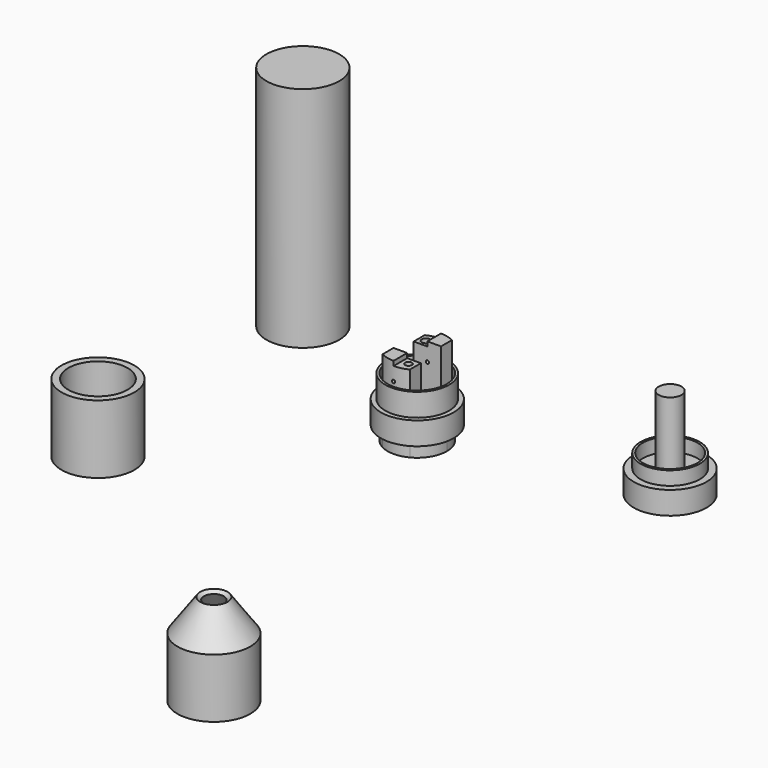
from build123d import *

# Parameters (mm, degrees)
F0_R      = 8
F1_DEPTH  = 50
F3_R      = 8
F3_R_2    = 6.5
F3_R_3    = 6
F3_R_4    = 2.5
F4_DEPTH  = 5
F5_DEPTH  = 3
F6_DEPTH  = 15
F2_R      = 8
F2_R_2    = 7
F7_DEPTH  = 5
F8_DEPTH  = 8
F9_DEPTH  = 5
F10_R     = 1.25
F11_DEPTH = 40
F12_DEPTH = 10
F13_R     = 0.35
F15_DEPTH = 25
F14_R     = 0.35
F16_DEPTH = 25
F17_R     = 8
F17_R_2   = 6.5
F18_DEPTH = 15
F21_R     = 3
F22_W     = 3
F22_H     = 3
F22_R     = 0.9181713185
F23_DEPTH = 1
F24_DEPTH = 3
F25_W     = 3
F25_H     = 3
F25_R     = 0.75
F26_DEPTH = 1
F27_DEPTH = 3
F29_DEPTH = 1
F31_DEPTH = 1


with BuildPart() as f1:
    # F0 (on Top) → F1 (new body)
    with BuildSketch(Plane.XY):
        with Locations((-50.1043796539, 40.5723229051)):
            Circle(F0_R)
    extrude(amount=F1_DEPTH)


with BuildPart() as f4:
    # F3 (on Top) → F4 (new body)
    with BuildSketch(Plane.XY):
        with Locations((31.9948196411, 38.7305766344)):
            Circle(F3_R)
        with Locations((31.9948196411, 38.7305766344)):
            Circle(F3_R_2, mode=Mode.SUBTRACT)
        with Locations((31.9948196411, 38.7305766344)):
            Circle(F3_R_2)
        with Locations((31.9948196411, 38.7305766344)):
            Circle(F3_R_3, mode=Mode.SUBTRACT)
        with Locations((31.9948196411, 38.7305766344)):
            Circle(F3_R_3)
        with Locations((31.9948196411, 38.7305766344)):
            Circle(F3_R_4, mode=Mode.SUBTRACT)
        with Locations((31.9948196411, 38.7305766344)):
            Circle(F3_R_4)
    extrude(amount=-F4_DEPTH)

    # F3 (on Top) → F5 (join)
    with BuildSketch(Plane.XY):
        with Locations((31.9948196411, 38.7305766344)):
            Circle(F3_R_2)
        with Locations((31.9948196411, 38.7305766344)):
            Circle(F3_R_3, mode=Mode.SUBTRACT)
    extrude(amount=F5_DEPTH)

    # F3 (on Top) → F6 (join)
    with BuildSketch(Plane.XY):
        with Locations((31.9948196411, 38.7305766344)):
            Circle(F3_R_4)
    extrude(amount=F6_DEPTH)


with BuildPart() as f7:
    # F2 (on Top) → F7 (new body)
    with BuildSketch(Plane.XY):
        with Locations((-17.9635435343, 31.7881578374)):
            Circle(F2_R)
        with Locations((-17.9635435343, 31.7881578374)):
            Circle(F2_R_2, mode=Mode.SUBTRACT)
        with Locations((-17.9635435343, 31.7881578374)):
            Circle(F2_R_2)
        with BuildLine():
            ThreePointArc((-14.9635435343, 37.5544391347), (-12.4070158416, 35.1608422282), (-11.4635435343, 31.7881578374))
            ThreePointArc((-11.4635435343, 31.7881578374), (-12.4070158416, 28.4154734466), (-14.9635435343, 26.0218765401))
            ThreePointArc((-14.9635435343, 26.0218765401), (-17.9635435343, 25.2881578374), (-20.9635435343, 26.0218765401))
            ThreePointArc((-20.9635435343, 26.0218765401), (-24.4635435343, 31.7881578374), (-20.9635435343, 37.5544391347))
            ThreePointArc((-20.9635435343, 37.5544391347), (-17.9635435343, 38.2881578374), (-14.9635435343, 37.5544391347))
        make_face(mode=Mode.SUBTRACT)
        with BuildLine():
            ThreePointArc((-11.9635435343, 31.7881578374), (-12.7673911116, 34.7881578374), (-14.9635435343, 36.9843102601))
            Line((-14.9635435343, 36.9843102601), (-14.9635435343, 34.5544391347))
            Line((-14.9635435343, 34.5544391347), (-20.9635435343, 34.5544391347))
            Line((-20.9635435343, 34.5544391347), (-20.9635435343, 36.9843102601))
            ThreePointArc((-20.9635435343, 36.9843102601), (-23.9635435343, 31.7881578374), (-20.9635435343, 26.5920054147))
            Line((-20.9635435343, 26.5920054147), (-20.9635435343, 29.0218765401))
            Line((-20.9635435343, 29.0218765401), (-14.9635435343, 29.0218765401))
            Line((-14.9635435343, 29.0218765401), (-14.9635435343, 26.5920054147))
            ThreePointArc((-14.9635435343, 26.5920054147), (-12.7673911116, 28.7881578374), (-11.9635435343, 31.7881578374))
        make_face()
        with BuildLine():
            Line((-14.9635435343, 34.5544391347), (-14.9635435343, 36.9843102601))
            ThreePointArc((-14.9635435343, 36.9843102601), (-17.9635435343, 37.7881578374), (-20.9635435343, 36.9843102601))
            Line((-20.9635435343, 36.9843102601), (-20.9635435343, 34.5544391347))
            Line((-20.9635435343, 34.5544391347), (-14.9635435343, 34.5544391347))
        make_face()
        with BuildLine():
            ThreePointArc((-20.9635435343, 26.5920054147), (-17.9635435343, 25.7881578374), (-14.9635435343, 26.5920054147))
            Line((-14.9635435343, 26.5920054147), (-14.9635435343, 29.0218765401))
            Line((-14.9635435343, 29.0218765401), (-20.9635435343, 29.0218765401))
            Line((-20.9635435343, 29.0218765401), (-20.9635435343, 26.5920054147))
        make_face()
        with BuildLine():
            Line((-20.9635435343, 36.9843102601), (-20.9635435343, 37.5544391347))
            ThreePointArc((-20.9635435343, 37.5544391347), (-24.4635435343, 31.7881578374), (-20.9635435343, 26.0218765401))
            Line((-20.9635435343, 26.0218765401), (-20.9635435343, 26.5920054147))
            ThreePointArc((-20.9635435343, 26.5920054147), (-23.9635435343, 31.7881578374), (-20.9635435343, 36.9843102601))
        make_face()
        with BuildLine():
            ThreePointArc((-14.9635435343, 26.0218765401), (-12.4070158416, 28.4154734466), (-11.4635435343, 31.7881578374))
            ThreePointArc((-11.4635435343, 31.7881578374), (-12.4070158416, 35.1608422282), (-14.9635435343, 37.5544391347))
            Line((-14.9635435343, 37.5544391347), (-14.9635435343, 36.9843102601))
            ThreePointArc((-14.9635435343, 36.9843102601), (-12.7673911116, 34.7881578374), (-11.9635435343, 31.7881578374))
            ThreePointArc((-11.9635435343, 31.7881578374), (-12.7673911116, 28.7881578374), (-14.9635435343, 26.5920054147))
            Line((-14.9635435343, 26.5920054147), (-14.9635435343, 26.0218765401))
        make_face()
        with BuildLine():
            ThreePointArc((-20.9635435343, 26.0218765401), (-17.9635435343, 25.2881578374), (-14.9635435343, 26.0218765401))
            Line((-14.9635435343, 26.0218765401), (-14.9635435343, 26.5920054147))
            ThreePointArc((-14.9635435343, 26.5920054147), (-17.9635435343, 25.7881578374), (-20.9635435343, 26.5920054147))
            Line((-20.9635435343, 26.5920054147), (-20.9635435343, 26.0218765401))
        make_face()
        with BuildLine():
            Line((-14.9635435343, 36.9843102601), (-14.9635435343, 37.5544391347))
            ThreePointArc((-14.9635435343, 37.5544391347), (-17.9635435343, 38.2881578374), (-20.9635435343, 37.5544391347))
            Line((-20.9635435343, 37.5544391347), (-20.9635435343, 36.9843102601))
            ThreePointArc((-20.9635435343, 36.9843102601), (-17.9635435343, 37.7881578374), (-14.9635435343, 36.9843102601))
        make_face()
    extrude(amount=-F7_DEPTH)

    # F2 (on Top) → F8 (join)
    with BuildSketch(Plane.XY):
        with BuildLine():
            ThreePointArc((-14.9635435343, 26.0218765401), (-12.4070158416, 28.4154734466), (-11.4635435343, 31.7881578374))
            ThreePointArc((-11.4635435343, 31.7881578374), (-12.4070158416, 35.1608422282), (-14.9635435343, 37.5544391347))
            Line((-14.9635435343, 37.5544391347), (-14.9635435343, 36.9843102601))
            ThreePointArc((-14.9635435343, 36.9843102601), (-12.7673911116, 34.7881578374), (-11.9635435343, 31.7881578374))
            ThreePointArc((-11.9635435343, 31.7881578374), (-12.7673911116, 28.7881578374), (-14.9635435343, 26.5920054147))
            Line((-14.9635435343, 26.5920054147), (-14.9635435343, 26.0218765401))
        make_face()
        with BuildLine():
            ThreePointArc((-20.9635435343, 26.0218765401), (-17.9635435343, 25.2881578374), (-14.9635435343, 26.0218765401))
            Line((-14.9635435343, 26.0218765401), (-14.9635435343, 26.5920054147))
            ThreePointArc((-14.9635435343, 26.5920054147), (-17.9635435343, 25.7881578374), (-20.9635435343, 26.5920054147))
            Line((-20.9635435343, 26.5920054147), (-20.9635435343, 26.0218765401))
        make_face()
        with BuildLine():
            Line((-14.9635435343, 36.9843102601), (-14.9635435343, 37.5544391347))
            ThreePointArc((-14.9635435343, 37.5544391347), (-17.9635435343, 38.2881578374), (-20.9635435343, 37.5544391347))
            Line((-20.9635435343, 37.5544391347), (-20.9635435343, 36.9843102601))
            ThreePointArc((-20.9635435343, 36.9843102601), (-17.9635435343, 37.7881578374), (-14.9635435343, 36.9843102601))
        make_face()
        with BuildLine():
            Line((-20.9635435343, 36.9843102601), (-20.9635435343, 37.5544391347))
            ThreePointArc((-20.9635435343, 37.5544391347), (-24.4635435343, 31.7881578374), (-20.9635435343, 26.0218765401))
            Line((-20.9635435343, 26.0218765401), (-20.9635435343, 26.5920054147))
            ThreePointArc((-20.9635435343, 26.5920054147), (-23.9635435343, 31.7881578374), (-20.9635435343, 36.9843102601))
        make_face()
    extrude(amount=-F8_DEPTH)

    # F2 (on Top) → F9 (join)
    with BuildSketch(Plane.XY):
        with Locations((-17.9635435343, 31.7881578374)):
            Circle(F2_R_2)
        with BuildLine():
            ThreePointArc((-14.9635435343, 37.5544391347), (-12.4070158416, 35.1608422282), (-11.4635435343, 31.7881578374))
            ThreePointArc((-11.4635435343, 31.7881578374), (-12.4070158416, 28.4154734466), (-14.9635435343, 26.0218765401))
            ThreePointArc((-14.9635435343, 26.0218765401), (-17.9635435343, 25.2881578374), (-20.9635435343, 26.0218765401))
            ThreePointArc((-20.9635435343, 26.0218765401), (-24.4635435343, 31.7881578374), (-20.9635435343, 37.5544391347))
            ThreePointArc((-20.9635435343, 37.5544391347), (-17.9635435343, 38.2881578374), (-14.9635435343, 37.5544391347))
        make_face(mode=Mode.SUBTRACT)
    extrude(amount=F9_DEPTH)

    # F10 (on face) → F11 (cut)
    with BuildSketch(Plane.XY):
        with Locations((-13.9635435343, 31.7881578374)):
            Circle(F10_R)
        with Locations((-21.9635435343, 31.7881578374)):
            Circle(F10_R)
    extrude(amount=-F11_DEPTH, mode=Mode.SUBTRACT)

    # F2 (on Top) → F12 (join)
    with BuildSketch(Plane.XY):
        with BuildLine():
            ThreePointArc((-20.9635435343, 26.5920054147), (-17.9635435343, 25.7881578374), (-14.9635435343, 26.5920054147))
            Line((-14.9635435343, 26.5920054147), (-14.9635435343, 29.0218765401))
            Line((-14.9635435343, 29.0218765401), (-20.9635435343, 29.0218765401))
            Line((-20.9635435343, 29.0218765401), (-20.9635435343, 26.5920054147))
        make_face()
        with BuildLine():
            ThreePointArc((-20.9635435343, 26.0218765401), (-17.9635435343, 25.2881578374), (-14.9635435343, 26.0218765401))
            Line((-14.9635435343, 26.0218765401), (-14.9635435343, 26.5920054147))
            ThreePointArc((-14.9635435343, 26.5920054147), (-17.9635435343, 25.7881578374), (-20.9635435343, 26.5920054147))
            Line((-20.9635435343, 26.5920054147), (-20.9635435343, 26.0218765401))
        make_face()
        with BuildLine():
            Line((-14.9635435343, 36.9843102601), (-14.9635435343, 37.5544391347))
            ThreePointArc((-14.9635435343, 37.5544391347), (-17.9635435343, 38.2881578374), (-20.9635435343, 37.5544391347))
            Line((-20.9635435343, 37.5544391347), (-20.9635435343, 36.9843102601))
            ThreePointArc((-20.9635435343, 36.9843102601), (-17.9635435343, 37.7881578374), (-14.9635435343, 36.9843102601))
        make_face()
        with BuildLine():
            Line((-14.9635435343, 34.5544391347), (-14.9635435343, 36.9843102601))
            ThreePointArc((-14.9635435343, 36.9843102601), (-17.9635435343, 37.7881578374), (-20.9635435343, 36.9843102601))
            Line((-20.9635435343, 36.9843102601), (-20.9635435343, 34.5544391347))
            Line((-20.9635435343, 34.5544391347), (-14.9635435343, 34.5544391347))
        make_face()
    extrude(amount=F12_DEPTH)

    # F13 (on face) → F15 (cut)
    with BuildSketch(Plane.XZ.offset(-34.5544391347)):
        with Locations((-17.9635435343, 6)):
            Circle(F13_R)
    extrude(amount=-F15_DEPTH, mode=Mode.SUBTRACT)

    # F14 (on face) → F16 (cut)
    with BuildSketch(Plane(origin=(0, 29.0218765401, 0), x_dir=(-1, 0, 0), z_dir=(0, 1, 0))):
        with Locations((17.9635435343, 6)):
            Circle(F14_R)
    extrude(amount=-F16_DEPTH, mode=Mode.SUBTRACT)

    # F22 (on face) → F23 (cut)
    with BuildSketch(Plane.XY.offset(10)):
        with Locations((-19.4635435343, 36.0544391347)):
            Rectangle(F22_W, F22_H)
        with Locations((-19.4635435343, 36.0544391347)):
            Circle(F22_R, mode=Mode.SUBTRACT)
        with Locations((-19.4635435343, 36.0544391347)):
            Circle(F22_R)
    extrude(amount=-F23_DEPTH, mode=Mode.SUBTRACT)

    # F22 (on face) → F24 (cut)
    with BuildSketch(Plane.XY.offset(10)):
        with Locations((-19.4635435343, 36.0544391347)):
            Circle(F22_R)
    extrude(amount=-F24_DEPTH, mode=Mode.SUBTRACT)

    # F25 (on face) → F26 (cut)
    with BuildSketch(Plane.XY.offset(10)):
        with Locations((-16.4635435343, 27.5218765401)):
            Rectangle(F25_W, F25_H)
        with Locations((-16.4635435343, 27.5218765401)):
            Circle(F25_R, mode=Mode.SUBTRACT)
        with Locations((-16.4635435343, 27.5218765401)):
            Circle(F25_R)
    extrude(amount=-F26_DEPTH, mode=Mode.SUBTRACT)

    # F25 (on face) → F27 (cut)
    with BuildSketch(Plane.XY.offset(10)):
        with Locations((-16.4635435343, 27.5218765401)):
            Circle(F25_R)
    extrude(amount=-F27_DEPTH, mode=Mode.SUBTRACT)

    # F28 (on face) → F29 (cut)
    with BuildSketch(Plane.XY.offset(10)):
        with BuildLine():
            Line((-20.9635435343, 37.5544391347), (-17.9635435343, 37.5544391347))
            Line((-17.9635435343, 37.5544391347), (-17.9635435343, 38.2881578374))
            ThreePointArc((-17.9635435343, 38.2881578374), (-19.5077539421, 38.1020642523), (-20.9635435343, 37.5544391347))
        make_face()
    extrude(amount=-F29_DEPTH, mode=Mode.SUBTRACT)

    # F30 (on face) → F31 (cut)
    with BuildSketch(Plane.XY.offset(10)):
        with BuildLine():
            Line((-14.9635435343, 26.0218765401), (-17.9635435343, 26.0218765401))
            Line((-17.9635435343, 26.0218765401), (-17.9635435343, 25.2881578374))
            ThreePointArc((-17.9635435343, 25.2881578374), (-16.4193331264, 25.4742514225), (-14.9635435343, 26.0218765401))
        make_face()
    extrude(amount=-F31_DEPTH, mode=Mode.SUBTRACT)


with BuildPart() as f18:
    # F17 (on Top) → F18 (new body)
    with BuildSketch(Plane.XY):
        with Locations((-47.353066504, -19.0943516791)):
            Circle(F17_R)
        with Locations((-47.353066504, -19.0943516791)):
            Circle(F17_R_2, mode=Mode.SUBTRACT)
    extrude(amount=F18_DEPTH)


with BuildPart() as f20:
    # F19 (on Front) → F20 (revolve)
    with BuildSketch(Plane.XZ):
        Polygon((-45.1808483899, -38.5879456215), (-45.1808483899, -51.5879456215), (-44.1808483899, -51.5879456215), (-44.1808483899, -38.9084106749), (-39.3671149187, -32.1691838152), (-40.1808483899, -31.5879456215), align=None)
    revolve(axis=Axis((-37.1808483899, 0, -46.5879456215), (0, 0, 1)))

    # F21
    f21_edges = [f20.edges().sort_by_distance(p)[0] for p in [
        (-30.180848, 0, -38.908411),
    ]]
    fillet(f21_edges, radius=F21_R)


solid = Compound([f1.part, f4.part, f7.part, f18.part, f20.part])
